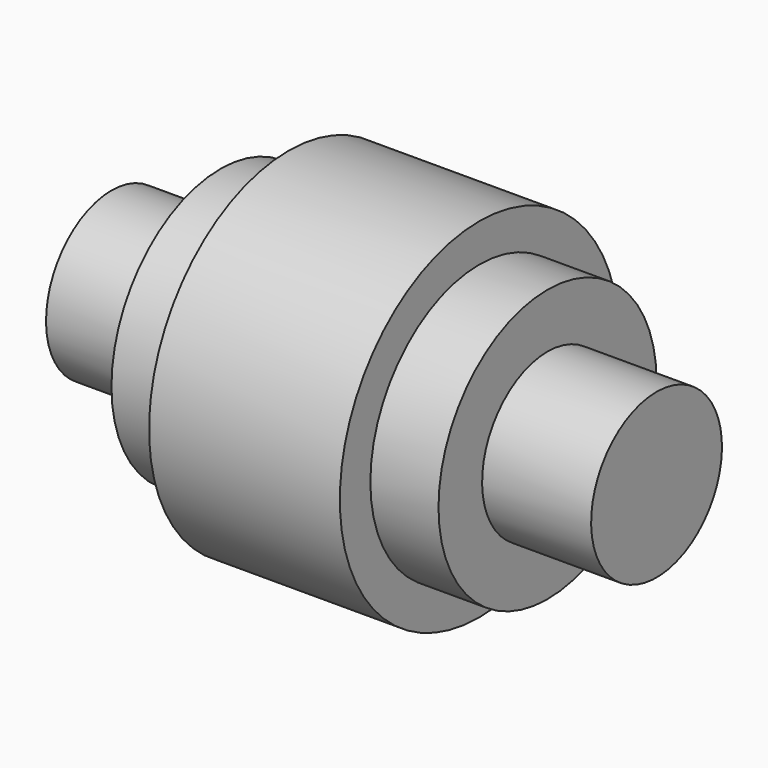
from build123d import *

# Parameters (mm, degrees)
F0_W = 100
F0_H = 15
F2_W = 60
F2_H = 25
F4_W = 35
F4_H = 32


with BuildPart() as f1:
    # F0 (on Front) → F1 (revolve)
    with BuildSketch(Plane.XZ):
        with Locations((0, 7.5)):
            Rectangle(F0_W, F0_H)
    revolve(axis=Axis((-0.244819, 0, 0), (1, 0, 0)))

    # F2 (on Front) → F3 (revolve)
    with BuildSketch(Plane.XZ):
        with Locations((0, 12.5)):
            Rectangle(F2_W, F2_H)
    revolve(axis=Axis((16.772865, 0, 0), (-1, 0, 0)))

    # F4 (on Front) → F5 (revolve)
    with BuildSketch(Plane.XZ):
        with Locations((0, 16)):
            Rectangle(F4_W, F4_H)
    revolve(axis=Axis((8.252203, 0, 0), (1, 0, 0)))


solid = f1.part
